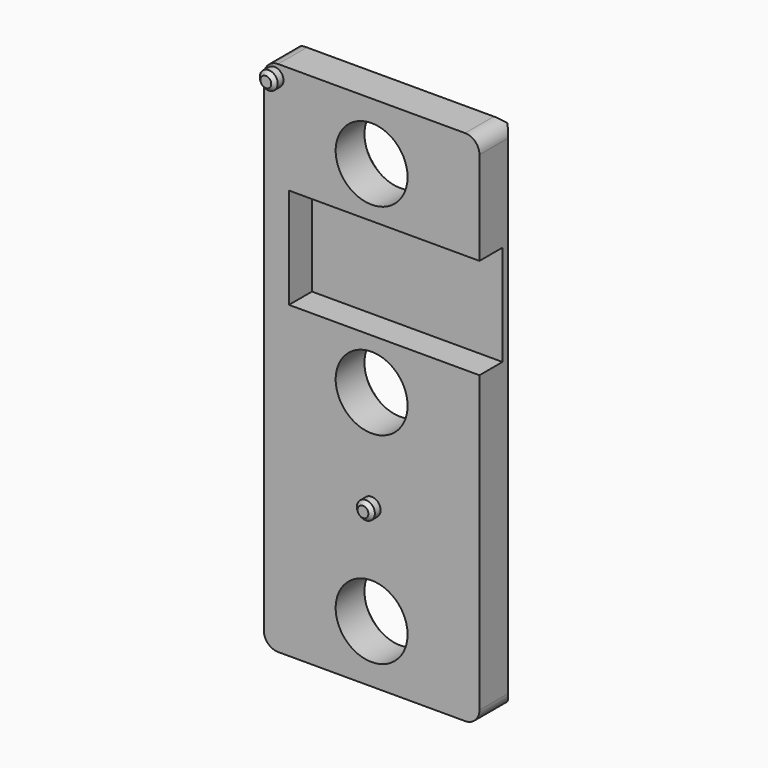
from build123d import *

# Parameters (mm, degrees)
F0_W     = 30
F0_H     = 72
F0_R     = 5
F1_DEPTH = 6
F2_R     = 1.25
F3_DEPTH = 1.5
F4_SIZE  = 0.5
F5_SIZE  = 1
F6_R     = 2
F7_W     = 34.31184
F7_H     = 14
F8_DEPTH = 4


with BuildPart() as f1:
    # F0 (on Front) → F1 (new body)
    with BuildSketch(Plane.XZ):
        with Locations((0, -28)):
            Rectangle(F0_W, F0_H)
        with Locations((0, -56)):
            Circle(F0_R, mode=Mode.SUBTRACT)
        with Locations((0, -28)):
            Circle(F0_R, mode=Mode.SUBTRACT)
        Circle(F0_R, mode=Mode.SUBTRACT)
    extrude(amount=-F1_DEPTH)

    # F2 (on Front) → F3 (join)
    with BuildSketch(Plane.XZ):
        with Locations((-13.51, 6.25)):
            Circle(F2_R)
        with Locations((0, -42)):
            Circle(F2_R)
    extrude(amount=F3_DEPTH)

    # F4
    f4_edges = [f1.edges().sort_by_distance(p)[0] for p in [
        (-14.76, -1.5, 6.25),
        (-1.25, -1.5, -42),
    ]]
    chamfer(f4_edges, length=F4_SIZE)

    # F5
    f5_edges = [f1.edges().sort_by_distance(p)[0] for p in [
        (-5, 6, -56),
        (-5, 6, -28),
        (-5, 6, 0),
        (-15, 6, -28),
        (0, 6, -64),
        (0, 6, 8),
        (15, 6, -28),
    ]]
    chamfer(f5_edges, length=F5_SIZE)

    # F6
    f6_edges = [f1.edges().sort_by_distance(p)[0] for p in [
        (-15, 2.5, 8),
        (15, 2.5, 8),
        (15, 2.5, -64),
        (-15, 2.5, -64),
    ]]
    fillet(f6_edges, radius=F6_R)

    # F7 (on Front) → F8 (cut)
    with BuildSketch(Plane.XZ):
        with Locations((5.65592, -14)):
            Rectangle(F7_W, F7_H)
    extrude(amount=-F8_DEPTH, mode=Mode.SUBTRACT)


solid = f1.part
